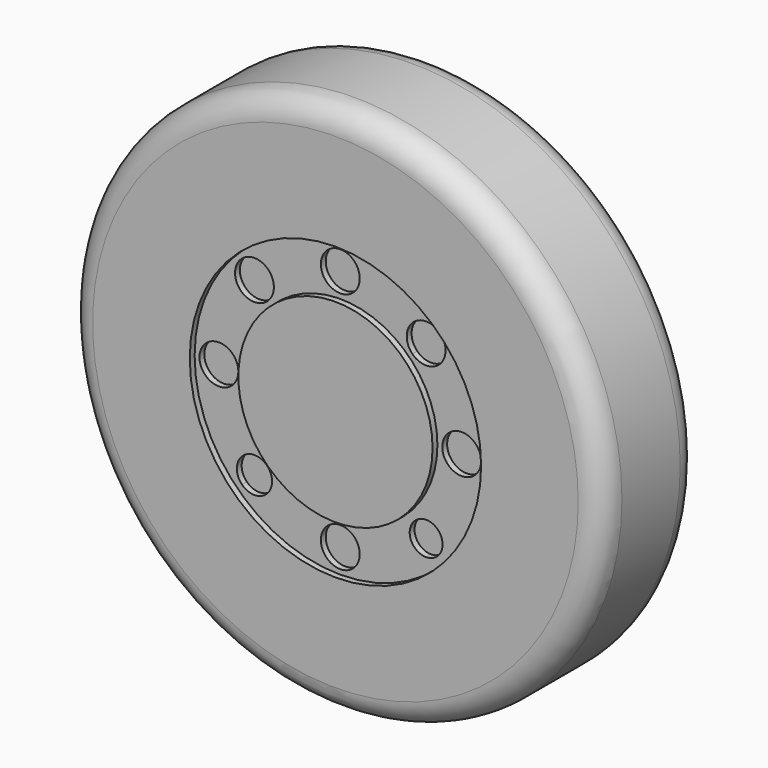
from build123d import *

# Parameters (mm, degrees)
F0_R     = 13.97
F1_DEPTH = 3.175
F2_R     = 1.27
F3_R     = 7.62
F3_R_2   = 5.08
F4_DEPTH = 0.3175
F5_R     = 2.5019
F6_DEPTH = 4
F7_R     = 1.016
F8_DEPTH = 0.3175


with BuildPart() as f1:
    # F0 (on Front) → F1 (new body, symmetric)
    with BuildSketch(Plane.XZ):
        Circle(F0_R)
    extrude(amount=F1_DEPTH, both=True)

    # F2
    f2_edges = [f1.edges().sort_by_distance(p)[0] for p in [
        (-13.97, -3.175, 0),
        (-13.97, 3.175, 0),
    ]]
    fillet(f2_edges, radius=F2_R)

    # F3 (on face) → F4 (cut)
    with BuildSketch(Plane.XZ.offset(3.175)):
        Circle(F3_R)
        Circle(F3_R_2, mode=Mode.SUBTRACT)
    extrude(amount=-F4_DEPTH, mode=Mode.SUBTRACT)

    # F5 (on face) → F6 (join)
    with BuildSketch(Plane(origin=(0, 3.175, 0), x_dir=(-1, 0, 0), z_dir=(0, 1, 0))):
        Circle(F5_R)
    extrude(amount=F6_DEPTH)

    # F7 (on face) → F8 (cut)
    with BuildSketch(Plane.XZ.offset(2.8575)):
        with Locations((0, 6.35)):
            Circle(F7_R)
        with Locations((0, -6.35)):
            Circle(F7_R)
        with Locations((-6.35, 0)):
            Circle(F7_R)
        with Locations((6.35, 0)):
            Circle(F7_R)
        with BuildLine():
            ThreePointArc((-5.208549, 5.208549), (-5.208549, 3.771708), (-3.771708, 3.771708))
            Line((-3.771708, 3.771708), (-5.208549, 5.208549))
        make_face()
        with BuildLine():
            Line((-5.208549, 5.208549), (-3.771708, 3.771708))
            ThreePointArc((-3.771708, 3.771708), (-3.551466, 4.101322), (-3.474128, 4.490128))
            ThreePointArc((-3.474128, 4.490128), (-4.101322, 5.42879), (-5.208549, 5.208549))
        make_face()
        with BuildLine():
            ThreePointArc((5.350396, -4.490128), (4.819338, -3.695344), (3.881827, -3.881827))
            Line((3.881827, -3.881827), (5.09843, -5.09843))
            ThreePointArc((5.09843, -5.09843), (5.284912, -4.819338), (5.350396, -4.490128))
        make_face()
        with BuildLine():
            Line((5.09843, -5.09843), (3.881827, -3.881827))
            ThreePointArc((3.881827, -3.881827), (3.881827, -5.09843), (5.09843, -5.09843))
        make_face()
        with BuildLine():
            ThreePointArc((-3.567395, -4.490128), (-3.637633, -4.137013), (-3.837657, -3.837657))
            Line((-3.837657, -3.837657), (-5.142599, -5.142599))
            ThreePointArc((-5.142599, -5.142599), (-4.137013, -5.342623), (-3.567395, -4.490128))
        make_face()
        with BuildLine():
            Line((-5.142599, -5.142599), (-3.837657, -3.837657))
            ThreePointArc((-3.837657, -3.837657), (-5.142599, -3.837657), (-5.142599, -5.142599))
        make_face()
        with BuildLine():
            ThreePointArc((5.208549, 5.208549), (3.771708, 5.208549), (3.771708, 3.771708))
            Line((3.771708, 3.771708), (5.208549, 5.208549))
        make_face()
        with BuildLine():
            Line((5.208549, 5.208549), (3.771708, 3.771708))
            ThreePointArc((3.771708, 3.771708), (4.878934, 3.551466), (5.506128, 4.490128))
            ThreePointArc((5.506128, 4.490128), (5.42879, 4.878934), (5.208549, 5.208549))
        make_face()
    extrude(amount=-F8_DEPTH, mode=Mode.SUBTRACT)


solid = f1.part
